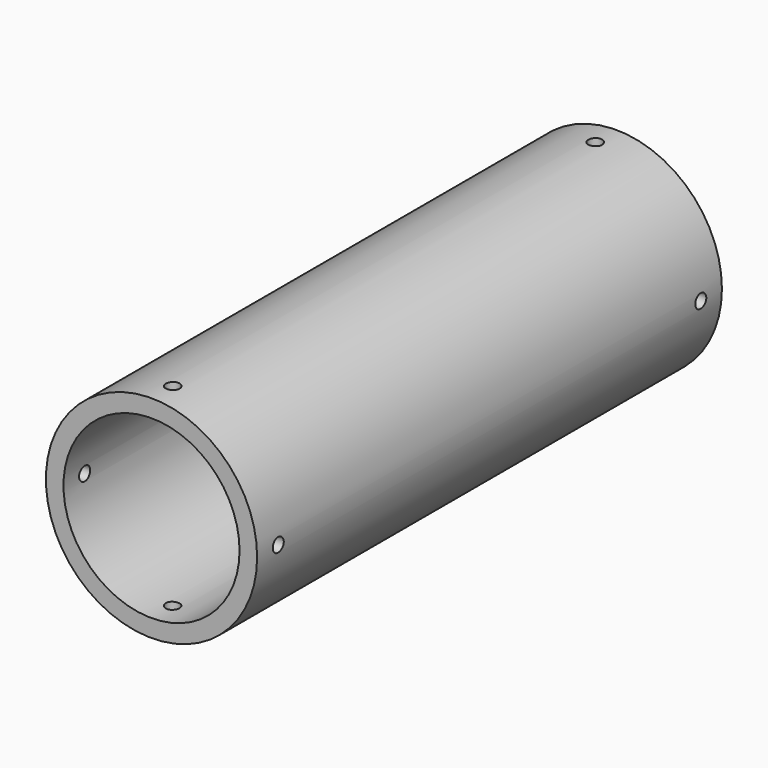
from build123d import *

# Parameters (mm, degrees)
F0_R     = 38.1
F0_R_2   = 31.750001
F1_DEPTH = 104.775
F2_R     = 2.4892
F3_DEPTH = 101.6
F4_R     = 2.4892
F5_DEPTH = 101.6


with BuildPart() as f1:
    # F0 (on Front) → F1 (new body, symmetric)
    with BuildSketch(Plane.XZ):
        Circle(F0_R)
        Circle(F0_R_2, mode=Mode.SUBTRACT)
    extrude(amount=F1_DEPTH, both=True)

    # F2 (on Right) → F3 (cut, symmetric)
    with BuildSketch(Plane.YZ):
        with Locations((95.25, 0)):
            Circle(F2_R)
        with Locations((-95.25, 0)):
            Circle(F2_R)
    extrude(amount=F3_DEPTH, both=True, mode=Mode.SUBTRACT)

    # F4 (on Top) → F5 (cut, symmetric)
    with BuildSketch(Plane.XY):
        with Locations((0, 95.25)):
            Circle(F4_R)
        with Locations((0, -95.25)):
            Circle(F4_R)
    extrude(amount=F5_DEPTH, both=True, mode=Mode.SUBTRACT)


solid = f1.part
